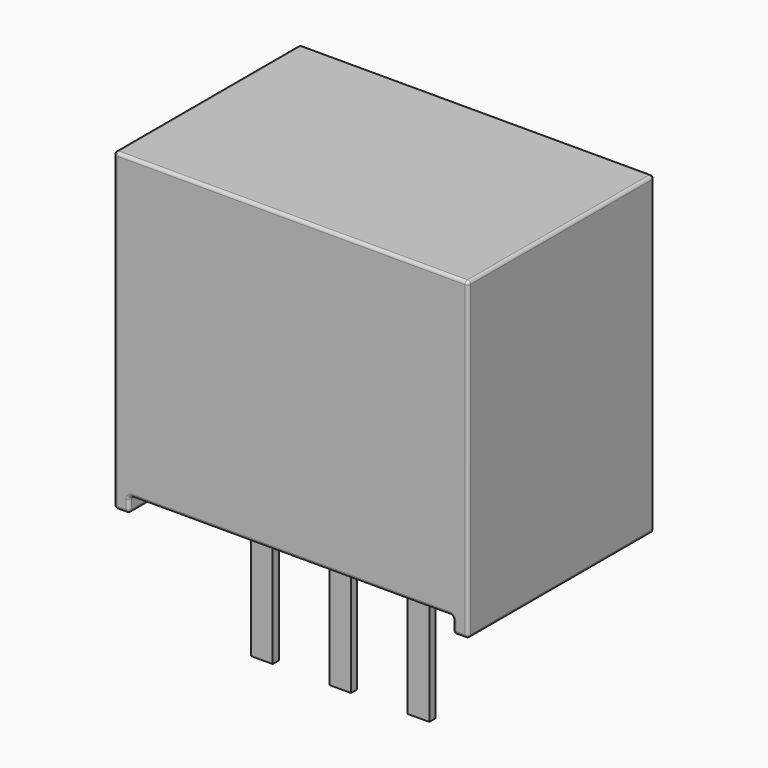
from build123d import *

# Parameters (mm, degrees)
F0_W          = 11.5
F0_H          = 7.55
F1_DEPTH      = 10.2
F2_W          = 10.5
F2_H          = 7.55
F3_DEPTH      = 0.5
F4_R          = 0.1
F5_W          = 0.7
F5_H          = 0.25
F6_DEPTH      = 4.1
F6_DEPTH_BACK = 0.5


with BuildPart() as f1:
    # F0 (on Top) → F1 (new body)
    with BuildSketch(Plane.XY):
        with Locations((0, 1.65)):
            Rectangle(F0_W, F0_H)
    extrude(amount=F1_DEPTH)

    # F2 (on face) → F3 (cut)
    with BuildSketch(Plane(origin=(0, 0, 0), x_dir=(1, 0, 0), z_dir=(0, 0, -1))):
        with Locations((0, -1.65)):
            Rectangle(F2_W, F2_H)
    extrude(amount=-F3_DEPTH, mode=Mode.SUBTRACT)

    # F4
    f4_edges = [f1.edges().sort_by_distance(p)[0] for p in [
        (-5.75, 1.65, 0),
        (-5.5, -2.125, 0),
        (-5.25, 1.65, 0),
        (-5.5, 5.425, 0),
        (-5.25, 5.425, 0.25),
        (-5.25, 1.65, 0.5),
        (-5.25, -2.125, 0.25),
        (0, -2.125, 0.5),
        (0, 5.425, 0.5),
        (5.75, 1.65, 0),
        (5.5, -2.125, 0),
        (5.25, 1.65, 0),
        (5.5, 5.425, 0),
        (5.75, 5.425, 5.1),
        (5.25, 5.425, 0.25),
        (5.75, -2.125, 5.1),
        (5.25, -2.125, 0.25),
        (5.25, 1.65, 0.5),
        (-5.75, -2.125, 5.1),
        (-5.75, 5.425, 5.1),
        (0, -2.125, 10.2),
        (5.75, 1.65, 10.2),
        (0, 5.425, 10.2),
        (-5.75, 1.65, 10.2),
    ]]
    fillet(f4_edges, radius=F4_R)


with BuildPart() as f6:
    # F5 (on Top) → F6 (new body, two sides)
    with BuildSketch(Plane.XY) as f6_sk:
        with Locations((2.54, 0)):
            Rectangle(F5_W, F5_H)
    extrude(amount=-F6_DEPTH)
    extrude(f6_sk.sketch, amount=F6_DEPTH_BACK)


with BuildPart() as f6b:
    # F5 (on Top) → F6, piece 2 (new body, two sides)
    with BuildSketch(Plane.XY) as f6_2_sk:
        Rectangle(F5_W, F5_H)
    extrude(amount=-F6_DEPTH)
    extrude(f6_2_sk.sketch, amount=F6_DEPTH_BACK)


with BuildPart() as f6c:
    # F5 (on Top) → F6, piece 3 (new body, two sides)
    with BuildSketch(Plane.XY) as f6_3_sk:
        with Locations((-2.54, 0)):
            Rectangle(F5_W, F5_H)
    extrude(amount=-F6_DEPTH)
    extrude(f6_3_sk.sketch, amount=F6_DEPTH_BACK)


solid = Compound([f1.part, f6.part, f6b.part, f6c.part])
